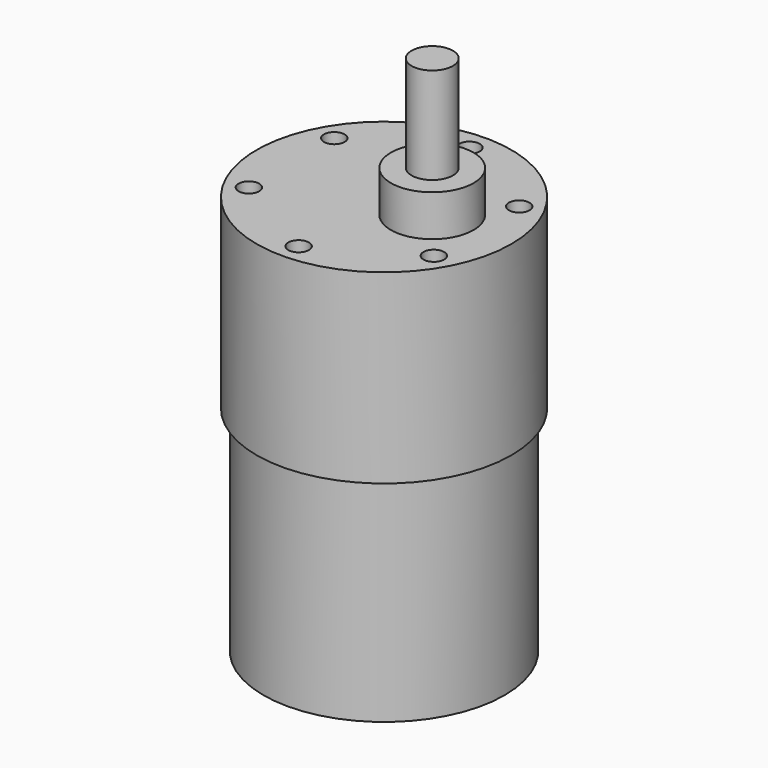
from build123d import *

# Parameters (mm, degrees)
F0_R     = 18.5
F0_R_2   = 17.5
F1_DEPTH = 27
F2_DEPTH = 31
F3_R     = 1.5
F4_DEPTH = 5
F3_R_2   = 6
F3_R_3   = 3
F5_DEPTH = 6
F6_DEPTH = 20


with BuildPart() as f1:
    # F0 (on Top) → F1 (new body)
    with BuildSketch(Plane.XY):
        Circle(F0_R)
        Circle(F0_R_2, mode=Mode.SUBTRACT)
        Circle(F0_R_2)
    extrude(amount=F1_DEPTH)

    # F0 (on Top) → F2 (join)
    with BuildSketch(Plane.XY):
        Circle(F0_R_2)
    extrude(amount=-F2_DEPTH)

    # F3 (on face) → F4 (cut)
    with BuildSketch(Plane.XY.offset(27)):
        with Locations((0, 15.5)):
            Circle(F3_R)
        with Locations((13.4233937587, 7.75)):
            Circle(F3_R)
        with Locations((13.4233937587, -7.75)):
            Circle(F3_R)
        with Locations((0, -15.5)):
            Circle(F3_R)
        with Locations((-13.4233937587, -7.75)):
            Circle(F3_R)
        with Locations((-13.4233937587, 7.75)):
            Circle(F3_R)
    extrude(amount=-F4_DEPTH, mode=Mode.SUBTRACT)

    # F3 (on face) → F5 (join)
    with BuildSketch(Plane.XY.offset(27)):
        with Locations((7, 0)):
            Circle(F3_R_2)
        with Locations((7, 0)):
            Circle(F3_R_3, mode=Mode.SUBTRACT)
    extrude(amount=F5_DEPTH)

    # F6 (add): a face of the model
    f6_faces = [f1.faces().sort_by_distance(p)[0] for p in [
        (7, 0, 27),
    ]]
    extrude(f6_faces, amount=F6_DEPTH)


solid = f1.part
